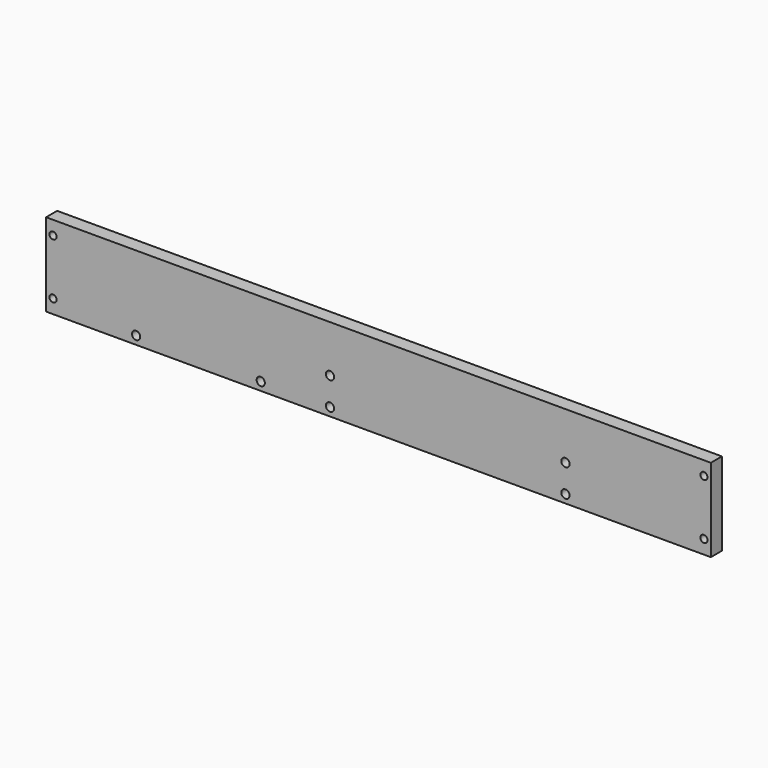
from build123d import *

# Parameters (mm, degrees)
F0_W           = 304.8
F0_H           = 6.35
F1_DEPTH       = 38.1
F3_D           = 2.7051
F3_DEPTH       = 15.08125
F3_TIP         = 0.8126940303
F5_D           = 3.2639
F5_CSINK_D     = 6.477
F5_CSINK_ANGLE = 82
F7_D           = 3.7973
F7_CSINK_D     = 7.7978
F7_CSINK_ANGLE = 82


with BuildPart() as f1:
    # F0 (on Top) → F1 (new body)
    with BuildSketch(Plane.XY):
        Rectangle(F0_W, F0_H)
    extrude(amount=F1_DEPTH)

    # F3
    with Locations(Plane(origin=(0, 0, 0), x_dir=(1, 0, 0), z_dir=(0, 0, -1))):
        with Locations((-127, 0), (127, 0), (0, 0)):
            Hole(F3_D / 2, depth=F3_DEPTH)
            with Locations((0, 0, -(F3_DEPTH + F3_TIP / 2))):  # 118° drill point
                Cone(0, F3_D / 2, F3_TIP, mode=Mode.SUBTRACT)

    # F5 (through all)
    with Locations(Plane(origin=(0, 3.175, 0), x_dir=(-1, 0, 0), z_dir=(0, 1, 0))):
        with Locations((149.225, 31.75), (149.225, 6.35), (-149.225, 31.75), (-149.225, 6.35)):
            CounterSinkHole(F5_D / 2, F5_CSINK_D / 2, counter_sink_angle=F5_CSINK_ANGLE)

    # F7 (through all)
    with Locations(Plane(origin=(0, 3.175, 0), x_dir=(-1, 0, 0), z_dir=(0, 1, 0))):
        with Locations((-85.725, 3.81), (22.225, 3.81), (53.975, 3.81), (111.125, 3.81), (-85.725, 16.51), (22.225, 16.51)):
            CounterSinkHole(F7_D / 2, F7_CSINK_D / 2, counter_sink_angle=F7_CSINK_ANGLE)


solid = f1.part
